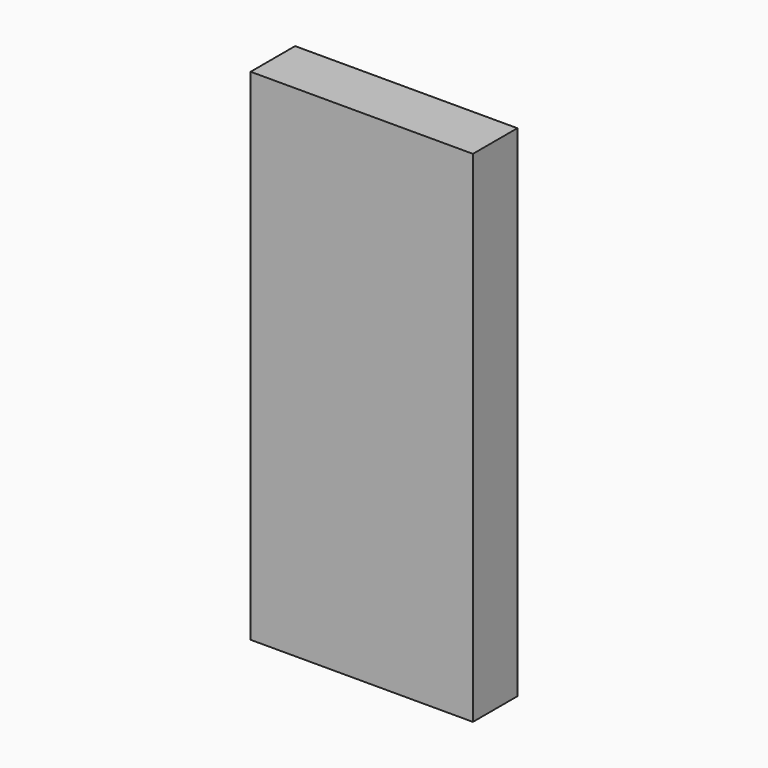
from build123d import *

# Parameters (mm, degrees)
BOX_W     = 4
BOX_H     = 1
BOX_DEPTH = 9


with BuildPart() as part:
    # Box → Box (new body)
    with BuildSketch(Plane.XY):
        with Locations((2, 0.5)):
            Rectangle(BOX_W, BOX_H)
    extrude(amount=BOX_DEPTH)


solid = part.part
